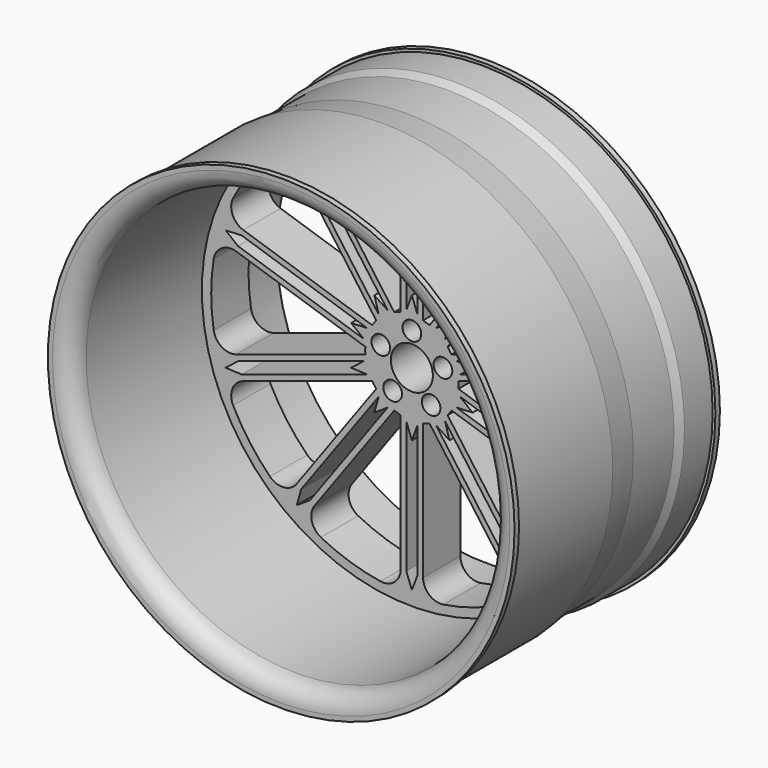
from build123d import *

# Parameters (mm, degrees)
F1_R          = 57.15
F1_R_2        = 2.54
F1_R_3        = 5.715
F2_DEPTH      = 6.35
F0_R          = 63.5
F0_R_2        = 57.15
F3_DEPTH      = 50.8
F3_DEPTH_BACK = 19.05
F6_R          = 5.08


with BuildPart() as f2:
    # F1 (on Front) → F2 (new body, symmetric)
    with BuildSketch(Plane.XZ):
        Circle(F1_R)
        with BuildLine():
            Line((-26.470331, -41.60045), (-4.791132, -11.761592))
            ThreePointArc((-4.791132, -11.761592), (-3.924516, -12.078418), (-3.037183, -12.331485))
            Line((-3.037183, -12.331485), (-3.037183, -49.214341))
            ThreePointArc((-3.037183, -49.214341), (-4.713189, -52.848873), (-8.565617, -53.934055))
            ThreePointArc((-8.565617, -53.934055), (-16.875418, -51.937196), (-24.771913, -48.66831))
            ThreePointArc((-24.771913, -48.66831), (-27.250738, -45.525979), (-26.470331, -41.60045))
        make_face(mode=Mode.SUBTRACT)
        Polygon((1.518591, -13.282125), (1.518591, -49.214341), (0, -53.262964), (-1.518591, -49.214341), (-1.518591, -13.282125), (0, -17.374652), align=None, mode=Mode.SUBTRACT)
        with BuildLine():
            Line((-45.867079, -18.0966), (-10.789398, -6.699171))
            ThreePointArc((-10.789398, -6.699171), (-10.274516, -7.464873), (-9.705398, -8.19117))
            Line((-9.705398, -8.19117), (-31.384596, -38.030027))
            ThreePointArc((-31.384596, -38.030027), (-34.876838, -39.985293), (-38.631372, -38.598824))
            ThreePointArc((-38.631372, -38.598824), (-44.180418, -32.098953), (-48.647414, -24.812925))
            ThreePointArc((-48.647414, -24.812925), (-48.805809, -20.813709), (-45.867079, -18.0966))
        make_face(mode=Mode.SUBTRACT)
        Polygon((-12.162781, -5.548669), (-46.336349, -16.652334), (-50.656089, -16.459161), (-47.27489, -13.763802), (-13.101322, -2.660136), (-16.524276, -5.369063), align=None, mode=Mode.SUBTRACT)
        Polygon((-6.578471, -11.63807), (-27.698898, -40.707844), (-31.307185, -43.090643), (-30.15603, -38.922633), (-9.035603, -9.852859), (-10.212564, -14.056388), align=None, mode=Mode.SUBTRACT)
        with Locations((-5.225411, -7.192161)):
            Circle(F1_R_2, mode=Mode.SUBTRACT)
        with BuildLine():
            Line((3.037183, -49.214341), (3.037183, -12.331485))
            ThreePointArc((3.037183, -12.331485), (3.924516, -12.078418), (4.791132, -11.761592))
            Line((4.791132, -11.761592), (26.470331, -41.60045))
            ThreePointArc((26.470331, -41.60045), (27.250738, -45.525979), (24.771913, -48.66831))
            ThreePointArc((24.771913, -48.66831), (16.875418, -51.937196), (8.565617, -53.934055))
            ThreePointArc((8.565617, -53.934055), (4.713189, -52.848873), (3.037183, -49.214341))
        make_face(mode=Mode.SUBTRACT)
        Polygon((9.035603, -9.852859), (30.15603, -38.922633), (31.307185, -43.090643), (27.698898, -40.707844), (6.578471, -11.63807), (10.212564, -14.056388), align=None, mode=Mode.SUBTRACT)
        with Locations((5.225411, -7.192161)):
            Circle(F1_R_2, mode=Mode.SUBTRACT)
        with BuildLine():
            Line((31.384596, -38.030027), (9.705398, -8.19117))
            ThreePointArc((9.705398, -8.19117), (10.274516, -7.464873), (10.789398, -6.699171))
            Line((10.789398, -6.699171), (45.867079, -18.0966))
            ThreePointArc((45.867079, -18.0966), (48.805809, -20.813709), (48.647414, -24.812925))
            ThreePointArc((48.647414, -24.812925), (44.180418, -32.098953), (38.631372, -38.598824))
            ThreePointArc((38.631372, -38.598824), (34.876838, -39.985293), (31.384596, -38.030027))
        make_face(mode=Mode.SUBTRACT)
        Polygon((13.101322, -2.660136), (47.27489, -13.763802), (50.656089, -16.459161), (46.336349, -16.652334), (12.162781, -5.548669), (16.524276, -5.369063), align=None, mode=Mode.SUBTRACT)
        with BuildLine():
            Line((47.744161, -12.319535), (12.66648, -0.922106))
            ThreePointArc((12.66648, -0.922106), (12.7, 0), (12.66648, 0.922106))
            Line((12.66648, 0.922106), (47.744161, 12.319535))
            ThreePointArc((47.744161, 12.319535), (51.71872, 11.848691), (53.941256, 8.520154))
            ThreePointArc((53.941256, 8.520154), (54.61, 0), (53.941256, -8.520154))
            ThreePointArc((53.941256, -8.520154), (51.71872, -11.848691), (47.744161, -12.319535))
        make_face(mode=Mode.SUBTRACT)
        with BuildLine():
            Line((-47.744161, 12.319535), (-12.66648, 0.922106))
            ThreePointArc((-12.66648, 0.922106), (-12.7, 0), (-12.66648, -0.922106))
            Line((-12.66648, -0.922106), (-47.744161, -12.319535))
            ThreePointArc((-47.744161, -12.319535), (-51.71872, -11.848691), (-53.941256, -8.520154))
            ThreePointArc((-53.941256, -8.520154), (-54.61, 0), (-53.941256, 8.520154))
            ThreePointArc((-53.941256, 8.520154), (-51.71872, 11.848691), (-47.744161, 12.319535))
        make_face(mode=Mode.SUBTRACT)
        Polygon((-13.101322, 2.660136), (-47.27489, 13.763802), (-50.656089, 16.459161), (-46.336349, 16.652334), (-12.162781, 5.548669), (-16.524276, 5.369063), align=None, mode=Mode.SUBTRACT)
        with BuildLine():
            ThreePointArc((-48.647414, 24.812925), (-44.180418, 32.098953), (-38.631372, 38.598824))
            ThreePointArc((-38.631372, 38.598824), (-34.876838, 39.985293), (-31.384596, 38.030027))
            Line((-31.384596, 38.030027), (-9.705398, 8.19117))
            ThreePointArc((-9.705398, 8.19117), (-10.274516, 7.464873), (-10.789398, 6.699171))
            Line((-10.789398, 6.699171), (-45.867079, 18.0966))
            ThreePointArc((-45.867079, 18.0966), (-48.805809, 20.813709), (-48.647414, 24.812925))
        make_face(mode=Mode.SUBTRACT)
        with Locations((-8.454892, 2.747161)):
            Circle(F1_R_2, mode=Mode.SUBTRACT)
        Polygon((-9.035603, 9.852859), (-30.15603, 38.922633), (-31.307185, 43.090643), (-27.698898, 40.707844), (-6.578471, 11.63807), (-10.212564, 14.056388), align=None, mode=Mode.SUBTRACT)
        with BuildLine():
            Line((-3.037183, 49.214341), (-3.037183, 12.331485))
            ThreePointArc((-3.037183, 12.331485), (-3.924516, 12.078418), (-4.791132, 11.761592))
            Line((-4.791132, 11.761592), (-26.470331, 41.60045))
            ThreePointArc((-26.470331, 41.60045), (-27.250738, 45.525979), (-24.771913, 48.66831))
            ThreePointArc((-24.771913, 48.66831), (-16.875418, 51.937196), (-8.565617, 53.934055))
            ThreePointArc((-8.565617, 53.934055), (-4.713189, 52.848873), (-3.037183, 49.214341))
        make_face(mode=Mode.SUBTRACT)
        Circle(F1_R_3, mode=Mode.SUBTRACT)
        with Locations((8.454892, 2.747161)):
            Circle(F1_R_2, mode=Mode.SUBTRACT)
        with Locations((0, 8.89)):
            Circle(F1_R_2, mode=Mode.SUBTRACT)
        Polygon((6.578471, 11.63807), (27.698898, 40.707844), (31.307185, 43.090643), (30.15603, 38.922633), (9.035603, 9.852859), (10.212564, 14.056388), align=None, mode=Mode.SUBTRACT)
        Polygon((12.162781, 5.548669), (46.336349, 16.652334), (50.656089, 16.459161), (47.27489, 13.763802), (13.101322, 2.660136), (16.524276, 5.369063), align=None, mode=Mode.SUBTRACT)
        with BuildLine():
            Line((45.867079, 18.0966), (10.789398, 6.699171))
            ThreePointArc((10.789398, 6.699171), (10.274516, 7.464873), (9.705398, 8.19117))
            Line((9.705398, 8.19117), (31.384596, 38.030027))
            ThreePointArc((31.384596, 38.030027), (34.876838, 39.985293), (38.631372, 38.598824))
            ThreePointArc((38.631372, 38.598824), (44.180418, 32.098953), (48.647414, 24.812925))
            ThreePointArc((48.647414, 24.812925), (48.805809, 20.813709), (45.867079, 18.0966))
        make_face(mode=Mode.SUBTRACT)
        Polygon((0, 53.262964), (1.518591, 49.214341), (1.518591, 13.282125), (0, 17.374652), (-1.518591, 13.282125), (-1.518591, 49.214341), align=None, mode=Mode.SUBTRACT)
        with BuildLine():
            Line((26.470331, 41.60045), (4.791132, 11.761592))
            ThreePointArc((4.791132, 11.761592), (3.924516, 12.078418), (3.037183, 12.331485))
            Line((3.037183, 12.331485), (3.037183, 49.214341))
            ThreePointArc((3.037183, 49.214341), (4.713189, 52.848873), (8.565617, 53.934055))
            ThreePointArc((8.565617, 53.934055), (16.875418, 51.937196), (24.771913, 48.66831))
            ThreePointArc((24.771913, 48.66831), (27.250738, 45.525979), (26.470331, 41.60045))
        make_face(mode=Mode.SUBTRACT)
    extrude(amount=F2_DEPTH, both=True)

    # F0 (on Front) → F3 (join, two sides)
    with BuildSketch(Plane.XZ) as f3_sk:
        Circle(F0_R)
        Circle(F0_R_2, mode=Mode.SUBTRACT)
    extrude(amount=F3_DEPTH)
    extrude(f3_sk.sketch, amount=-F3_DEPTH_BACK)

    # F4 (on Right) → F5 (revolve, cut)
    with BuildSketch(Plane.YZ):
        Polygon((-8.207055, 61.74219), (0, 61.74219), (5.630334, 61.74219), (7.903932, 62.752681), (17.526, 62.752681), (17.526, 63.5), (-49.276, 63.5), (-49.276, 62.752681), (-16.45638, 62.752681), align=None)
    revolve(axis=Axis((0, -11.831738, 0), (0, 1, 0)), mode=Mode.SUBTRACT)

    # F6
    f6_edges = [f2.edges().sort_by_distance(p)[0] for p in [
        (-57.15, -50.8, 0),
    ]]
    fillet(f6_edges, radius=F6_R)


solid = f2.part
